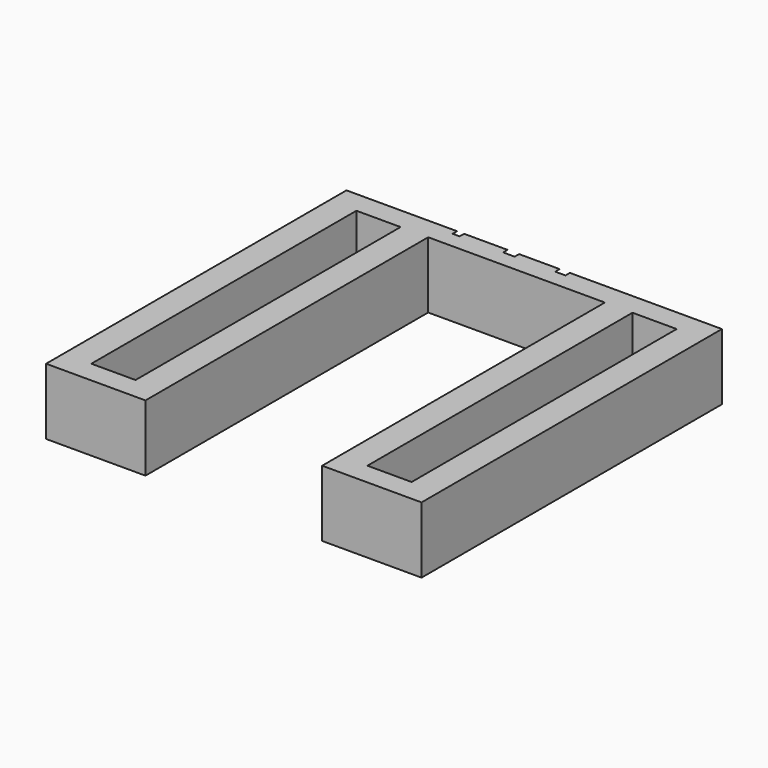
from build123d import *

# Parameters (mm, degrees)
F0_W     = 431.8
F0_H     = 431.8
F1_DEPTH = 76.2
F2_W     = 203.2
F2_H     = 76.2
F3_DEPTH = 355.6
F4_W     = 50.8
F4_H     = 381
F5_DEPTH = 76.201
F7_DEPTH = 6.35
F8_W     = 203.2
F8_H     = 50.8
F9_DEPTH = 76.2010001


with BuildPart() as f1:
    # F0 (on Top) → F1 (new body)
    with BuildSketch(Plane.XY):
        Rectangle(F0_W, F0_H)
    extrude(amount=F1_DEPTH)

    # F2 (on face) → F3 (cut)
    with BuildSketch(Plane.XZ.offset(215.9)):
        with Locations((0, 38.1)):
            Rectangle(F2_W, F2_H)
    extrude(amount=-F3_DEPTH, mode=Mode.SUBTRACT)

    # F4 (on face) → F5 (cut, through all)
    with BuildSketch(Plane(origin=(0, 0, 0), x_dir=(1, 0, 0), z_dir=(0, 0, -1))):
        with Locations((158.75, 0)):
            Rectangle(F4_W, F4_H)
        with Locations((-158.75, 0)):
            Rectangle(F4_W, F4_H)
    extrude(amount=-F5_DEPTH, mode=Mode.SUBTRACT)

    # F6 (on face) → F7 (cut)
    with BuildSketch(Plane(origin=(0, 215.9, 0), x_dir=(-1, 0, 0), z_dir=(0, 1, 0))):
        with BuildLine():
            Line((64.3086559534, 12.5015625), (64.3086559534, 0))
            Line((64.3086559534, 0), (85.3091018042, 0))
            add(Edge.make_bspline(
                [(102.9626273076, 9.971484375), (96.4530371195, 2.3454737061), (85.3091018042, 0)],
                knots=[0, 0, 0, 0.6924376574, 0.6924376574, 0.6924376574], degree=2))
            add(Edge.make_bspline(
                [(112.3636038701, 43.308984375), (112.3636038701, 20.984765625), (102.9626273076, 9.971484375)],
                knots=[0, 0, 0, 1, 1, 1], degree=2))
            add(Edge.make_bspline(
                [(109.0067028284, 61.1104817708), (112.3636038701, 53.6442708333), (112.3636038701, 43.308984375)],
                knots=[0, 0, 0, 1, 1, 1], degree=2))
            add(Edge.make_bspline(
                [(99.3742158492, 72.5041015625), (105.6498017867, 68.5766927083), (109.0067028284, 61.1104817708)],
                knots=[0, 0, 0, 1, 1, 1], degree=2))
            add(Edge.make_bspline(
                [(88.6614694014, 76.2), (94.6222843884, 75.4779717125), (99.3742158492, 72.5041015625)],
                knots=[0.2427907915, 0.2427907915, 0.2427907915, 1, 1, 1], degree=2))
            Line((88.6614694014, 76.2), (80.5754538831, 76.2))
            add(Edge.make_bspline(
                [(65.9374970992, 69.3787109375), (71.5906234997, 75.1537011406), (80.5754538831, 76.2)],
                knots=[0, 0, 0, 0.818822401, 0.818822401, 0.818822401], degree=2))
            add(Edge.make_bspline(
                [(59.0335257451, 50.1716145833), (59.0335257451, 62.3259114583), (65.9374970992, 69.3787109375)],
                knots=[0, 0, 0, 1, 1, 1], degree=2))
            add(Edge.make_bspline(
                [(64.7220674117, 32.5850911458), (59.0335257451, 38.9102864583), (59.0335257451, 50.1716145833)],
                knots=[0, 0, 0, 1, 1, 1], degree=2))
            add(Edge.make_bspline(
                [(80.2828747034, 26.2598958333), (70.4106090784, 26.2598958333), (64.7220674117, 32.5850911458)],
                knots=[0, 0, 0, 1, 1, 1], degree=2))
            add(Edge.make_bspline(
                [(90.0972627242, 28.2194661458), (86.1698538701, 26.2598958333), (80.2828747034, 26.2598958333)],
                knots=[0, 0, 0, 1, 1, 1], degree=2))
            add(Edge.make_bspline(
                [(97.0177705367, 35.0407552083), (94.0246715784, 30.1790364583), (90.0972627242, 28.2194661458)],
                knots=[0, 0, 0, 1, 1, 1], degree=2))
            Line((97.0177705367, 35.0407552083), (97.6461559534, 35.0407552083))
            add(Edge.make_bspline(
                [(94.4876924117, 21.1583984375), (97.2327444951, 26.19375), (97.6461559534, 35.0407552083)],
                knots=[0, 0, 0, 1, 1, 1], degree=2))
            add(Edge.make_bspline(
                [(86.5749970992, 13.7748697917), (91.7426403284, 16.123046875), (94.4876924117, 21.1583984375)],
                knots=[0, 0, 0, 1, 1, 1], degree=2))
            add(Edge.make_bspline(
                [(73.4037080367, 11.4266927083), (81.4073538701, 11.4266927083), (86.5749970992, 13.7748697917)],
                knots=[0, 0, 0, 1, 1, 1], degree=2))
            add(Edge.make_bspline(
                [(64.3086559534, 12.5015625), (68.6577444951, 11.4266927083), (73.4037080367, 11.4266927083)],
                knots=[0, 0, 0, 1, 1, 1], degree=2))
        make_face()
        with BuildLine():
            add(Edge.make_bspline(
                [(85.0288382451, 63.6157552083), (80.0679007451, 63.6157552083), (77.2815075159, 60.2009765625)],
                knots=[0, 0, 0, 1, 1, 1], degree=2))
            add(Edge.make_bspline(
                [(93.2722627242, 59.3741536458), (90.0393851201, 63.6157552083), (85.0288382451, 63.6157552083)],
                knots=[0, 0, 0, 1, 1, 1], degree=2))
            add(Edge.make_bspline(
                [(96.5051403284, 48.9975260417), (96.5051403284, 55.1325520833), (93.2722627242, 59.3741536458)],
                knots=[0, 0, 0, 1, 1, 1], degree=2))
            add(Edge.make_bspline(
                [(93.0407523076, 41.6801432292), (96.5051403284, 44.8634114583), (96.5051403284, 48.9975260417)],
                knots=[0, 0, 0, 1, 1, 1], degree=2))
            add(Edge.make_bspline(
                [(84.7146455367, 38.496875), (89.5763642867, 38.496875), (93.0407523076, 41.6801432292)],
                knots=[0, 0, 0, 1, 1, 1], degree=2))
            add(Edge.make_bspline(
                [(77.0251924117, 41.7049479167), (79.5552705367, 38.496875), (84.7146455367, 38.496875)],
                knots=[0, 0, 0, 1, 1, 1], degree=2))
            add(Edge.make_bspline(
                [(74.4951142867, 50.3865885417), (74.4951142867, 44.9130208333), (77.0251924117, 41.7049479167)],
                knots=[0, 0, 0, 1, 1, 1], degree=2))
            add(Edge.make_bspline(
                [(77.2815075159, 60.2009765625), (74.4951142867, 56.7861979167), (74.4951142867, 50.3865885417)],
                knots=[0, 0, 0, 1, 1, 1], degree=2))
        make_face(mode=Mode.SUBTRACT)
        with BuildLine():
            add(Edge.make_bspline(
                [(-42.8459156165, 0), (-50.2518973403, 2.1571424157), (-54.7290393591, 8.780859375)],
                knots=[0.3256694736, 0.3256694736, 0.3256694736, 1, 1, 1], degree=2))
            Line((-42.8459156165, 0), (-26.8477042928, 0))
            add(Edge.make_bspline(
                [(-15.0332711299, 8.4749348958), (-19.370815255, 2.106933253), (-26.8477042928, 0)],
                knots=[0, 0, 0, 0.6691374514, 0.6691374514, 0.6691374514], degree=2))
            add(Edge.make_bspline(
                [(-8.5509794633, 37.7692708333), (-8.5509794633, 17.9916666667), (-15.0332711299, 8.4749348958)],
                knots=[0, 0, 0, 1, 1, 1], degree=2))
            add(Edge.make_bspline(
                [(-15.2399768591, 66.823828125), (-8.5509794633, 56.901953125), (-8.5509794633, 37.7692708333)],
                knots=[0, 0, 0, 1, 1, 1], degree=2))
            add(Edge.make_bspline(
                [(-29.2256139556, 76.2), (-20.3602653148, 74.4188171817), (-15.2399768591, 66.823828125)],
                knots=[0.234520788, 0.234520788, 0.234520788, 1, 1, 1], degree=2))
            Line((-29.2256139556, 76.2), (-41.0506894601, 76.2))
            add(Edge.make_bspline(
                [(-54.9026721716, 67.2620442708), (-49.9879088183, 74.4707828466), (-41.0506894601, 76.2)],
                knots=[0, 0, 0, 0.7601220886, 0.7601220886, 0.7601220886], degree=2))
            add(Edge.make_bspline(
                [(-61.3684273799, 37.7692708333), (-61.3684273799, 57.7783854167), (-54.9026721716, 67.2620442708)],
                knots=[0, 0, 0, 1, 1, 1], degree=2))
            add(Edge.make_bspline(
                [(-54.7290393591, 8.780859375), (-61.3684273799, 18.603515625), (-61.3684273799, 37.7692708333)],
                knots=[0, 0, 0, 1, 1, 1], degree=2))
        make_face()
        with BuildLine():
            add(Edge.make_bspline(
                [(-45.4934273799, 37.7692708333), (-45.4934273799, 23.8786458333), (-43.0956409216, 17.859375)],
                knots=[0, 0, 0, 1, 1, 1], degree=2))
            add(Edge.make_bspline(
                [(-43.0708362341, 57.7453125), (-45.4934273799, 51.6764322917), (-45.4934273799, 37.7692708333)],
                knots=[0, 0, 0, 1, 1, 1], degree=2))
            add(Edge.make_bspline(
                [(-35.0093127966, 63.8141927083), (-40.6482450883, 63.8141927083), (-43.0708362341, 57.7453125)],
                knots=[0, 0, 0, 1, 1, 1], degree=2))
            add(Edge.make_bspline(
                [(-26.9725940466, 57.7453125), (-29.4861357133, 63.8141927083), (-35.0093127966, 63.8141927083)],
                knots=[0, 0, 0, 1, 1, 1], degree=2))
            add(Edge.make_bspline(
                [(-24.4590523799, 37.7692708333), (-24.4590523799, 51.6764322917), (-26.9725940466, 57.7453125)],
                knots=[0, 0, 0, 1, 1, 1], degree=2))
            add(Edge.make_bspline(
                [(-26.9395211299, 17.9337890625), (-24.4590523799, 24.0274739583), (-24.4590523799, 37.7692708333)],
                knots=[0, 0, 0, 1, 1, 1], degree=2))
            add(Edge.make_bspline(
                [(-35.0093127966, 11.8401041667), (-29.4199898799, 11.8401041667), (-26.9395211299, 17.9337890625)],
                knots=[0, 0, 0, 1, 1, 1], degree=2))
            add(Edge.make_bspline(
                [(-43.0956409216, 17.859375), (-40.6978544633, 11.8401041667), (-35.0093127966, 11.8401041667)],
                knots=[0, 0, 0, 1, 1, 1], degree=2))
        make_face(mode=Mode.SUBTRACT)
        Polygon((-85.4951200883, 62.01171875), (-113.8716825883, 0), (-97.1202502966, 0), (-68.5452502966, 65.4182291667), (-68.5452502966, 75.455859375), (-122.7517607133, 75.455859375), (-122.7517607133, 62.01171875), align=None)
        with BuildLine():
            add(Edge.make_bspline(
                [(9.3515991344, 0), (3.9605819731, 1.0210227395), (-0.7457711299, 3.0427083333)],
                knots=[0.5050353738, 0.5050353738, 0.5050353738, 1, 1, 1], degree=2))
            Line((9.3515991344, 0), (32.0524996966, 0))
            add(Edge.make_bspline(
                [(43.6380830367, 5.0353515625), (39.0063996913, 1.4743816264), (32.0524996966, 0)],
                knots=[0, 0, 0, 0.5859606644, 0.5859606644, 0.5859606644], degree=2))
            add(Edge.make_bspline(
                [(51.5425101201, 22.0100260417), (51.5425101201, 11.1125), (43.6380830367, 5.0353515625)],
                knots=[0, 0, 0, 1, 1, 1], degree=2))
            add(Edge.make_bspline(
                [(46.8461559534, 33.9245442708), (51.5425101201, 29.5010416667), (51.5425101201, 22.0100260417)],
                knots=[0, 0, 0, 1, 1, 1], degree=2))
            add(Edge.make_bspline(
                [(32.9886038701, 39.4890625), (42.1498017867, 38.348046875), (46.8461559534, 33.9245442708)],
                knots=[0, 0, 0, 1, 1, 1], degree=2))
            Line((32.9886038701, 39.4890625), (32.9886038701, 39.78671875))
            add(Edge.make_bspline(
                [(45.0354137659, 46.6162760417), (40.7442028284, 41.6553385417), (32.9886038701, 39.78671875)],
                knots=[0, 0, 0, 1, 1, 1], degree=2))
            add(Edge.make_bspline(
                [(49.3266247034, 58.6548177083), (49.3266247034, 51.5772135417), (45.0354137659, 46.6162760417)],
                knots=[0, 0, 0, 1, 1, 1], degree=2))
            add(Edge.make_bspline(
                [(42.5301403284, 71.8757161458), (49.3266247034, 67.121484375), (49.3266247034, 58.6548177083)],
                knots=[0, 0, 0, 1, 1, 1], degree=2))
            add(Edge.make_bspline(
                [(30.6152373457, 76.2), (37.7775203209, 75.2002374407), (42.5301403284, 71.8757161458)],
                knots=[0.3007237646, 0.3007237646, 0.3007237646, 1, 1, 1], degree=2))
            Line((30.6152373457, 76.2), (17.3550933311, 76.2))
            add(Edge.make_bspline(
                [(-0.6465523799, 69.1885416667), (7.2044403936, 74.8412564636), (17.3550933311, 76.2)],
                knots=[0, 0, 0, 0.759629915, 0.759629915, 0.759629915], degree=2))
            Line((-0.6465523799, 69.1885416667), (6.7452444951, 58.191796875))
            add(Edge.make_bspline(
                [(15.2945934534, 62.4747395833), (11.4415986617, 61.2345052083), (6.7452444951, 58.191796875)],
                knots=[0, 0, 0, 1, 1, 1], degree=2))
            add(Edge.make_bspline(
                [(22.8682913701, 63.7149739583), (19.1475882451, 63.7149739583), (15.2945934534, 62.4747395833)],
                knots=[0, 0, 0, 1, 1, 1], degree=2))
            add(Edge.make_bspline(
                [(33.6169892867, 55.1325520833), (33.6169892867, 63.7149739583), (22.8682913701, 63.7149739583)],
                knots=[0, 0, 0, 1, 1, 1], degree=2))
            add(Edge.make_bspline(
                [(29.5572887659, 47.2611979167), (33.6169892867, 49.559765625), (33.6169892867, 55.1325520833)],
                knots=[0, 0, 0, 1, 1, 1], degree=2))
            add(Edge.make_bspline(
                [(16.7167288701, 44.9626302083), (25.4975882451, 44.9626302083), (29.5572887659, 47.2611979167)],
                knots=[0, 0, 0, 1, 1, 1], degree=2))
            Line((16.7167288701, 44.9626302083), (10.8793590784, 44.9626302083))
            Line((10.8793590784, 44.9626302083), (10.8793590784, 32.7091145833))
            Line((10.8793590784, 32.7091145833), (16.6175101201, 32.7091145833))
            add(Edge.make_bspline(
                [(30.4667939742, 30.4849609375), (26.1259736617, 32.7091145833), (16.6175101201, 32.7091145833)],
                knots=[0, 0, 0, 1, 1, 1], degree=2))
            add(Edge.make_bspline(
                [(34.8076142867, 22.9526041667), (34.8076142867, 28.2608072917), (30.4667939742, 30.4849609375)],
                knots=[0, 0, 0, 1, 1, 1], degree=2))
            add(Edge.make_bspline(
                [(31.0373017867, 14.3123046875), (34.8076142867, 16.9994791667), (34.8076142867, 22.9526041667)],
                knots=[0, 0, 0, 1, 1, 1], degree=2))
            add(Edge.make_bspline(
                [(19.3460257451, 11.6251302083), (27.2669892867, 11.6251302083), (31.0373017867, 14.3123046875)],
                knots=[0, 0, 0, 1, 1, 1], degree=2))
            add(Edge.make_bspline(
                [(8.9115205367, 13.0224609375), (14.1866507451, 11.6251302083), (19.3460257451, 11.6251302083)],
                knots=[0, 0, 0, 1, 1, 1], degree=2))
            add(Edge.make_bspline(
                [(-0.7457711299, 16.6356770833), (3.6363903284, 14.4197916667), (8.9115205367, 13.0224609375)],
                knots=[0, 0, 0, 1, 1, 1], degree=2))
            Line((-0.7457711299, 16.6356770833), (-0.7457711299, 3.0427083333))
        make_face()
    extrude(amount=-F7_DEPTH, mode=Mode.SUBTRACT)

    # F8 (on face) → F9 (cut, through all)
    with BuildSketch(Plane.XY.offset(76.2)):
        with Locations((0, 165.1)):
            Rectangle(F8_W, F8_H)
    extrude(amount=-F9_DEPTH, mode=Mode.SUBTRACT)


solid = f1.part
